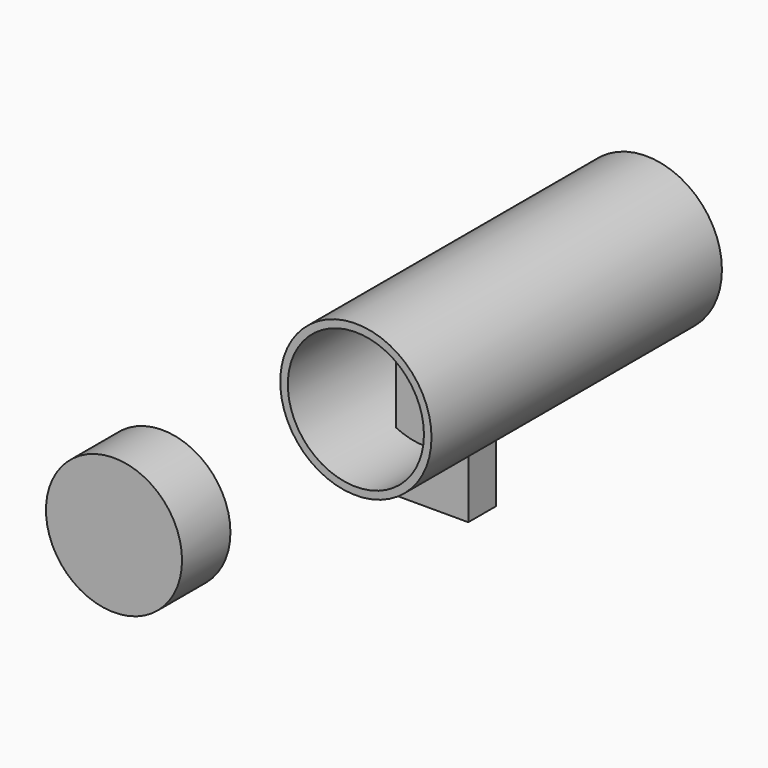
from build123d import *

# Parameters (mm, degrees)
F0_R     = 28.575
F1_DEPTH = 3.175
F0_R_2   = 31.75
F2_DEPTH = 152.4
F3_R     = 28.563714
F4_DEPTH = 25.4
F5_T     = -2.54
F6_W     = 30.363464
F6_H     = 14.604605
F7_DEPTH = 50.8


with BuildPart() as f1:
    # F0 (on Front) → F1 (new body)
    with BuildSketch(Plane.XZ):
        Circle(F0_R)
    extrude(amount=F1_DEPTH)

    # F0 (on Front) → F2 (join)
    with BuildSketch(Plane.XZ):
        Circle(F0_R_2)
        Circle(F0_R, mode=Mode.SUBTRACT)
    extrude(amount=F2_DEPTH)

    # F6 (on Top) → F7 (join)
    with BuildSketch(Plane.XY):
        with Locations((2.629106, -108.38009)):
            Rectangle(F6_W, F6_H)
    extrude(amount=-F7_DEPTH)


with BuildPart() as f4:
    # F3 (on face) → F4 (new body)
    with BuildSketch(Plane.XZ.offset(152.4)):
        with Locations((-81.230834, -62.525399)):
            Circle(F3_R)
    extrude(amount=F4_DEPTH)

    # F5
    f5_openings = [f4.faces().sort_by_distance(p)[0] for p in [
        (-81.230834, -152.4, -62.525399),
    ]]
    offset(amount=F5_T, openings=f5_openings)


solid = Compound([f1.part, f4.part])
